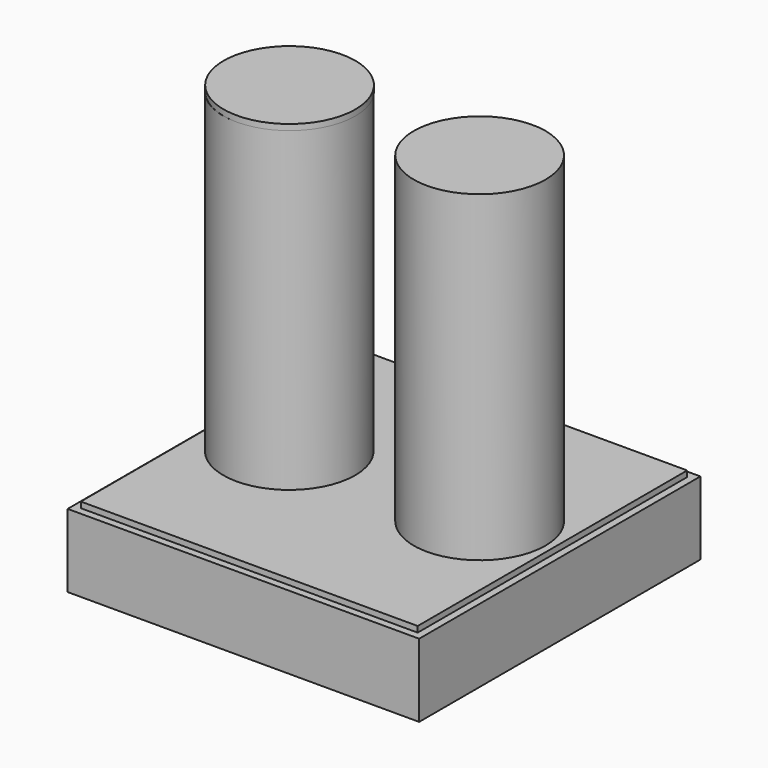
from build123d import *

# Parameters (mm, degrees)
F0_W     = 120
F0_H     = 120
F0_R     = 57
F1_DEPTH = 25
F2_W     = 115
F2_H     = 115
F2_R     = 22.5
F3_DEPTH = 2
F2_R_2   = 20
F4_DEPTH = 110
F5_R     = 22.5
F5_R_2   = 20
F6_DEPTH = 2


with BuildPart() as f1:
    # F0 (on Top) → F1 (new body)
    with BuildSketch(Plane.XY):
        Rectangle(F0_W, F0_H)
        Circle(F0_R, mode=Mode.SUBTRACT)
    extrude(amount=-F1_DEPTH)

    # F2 (on Top) → F3 (join)
    with BuildSketch(Plane.XY):
        Rectangle(F2_W, F2_H)
        with Locations((-32.354934313, 0)):
            Circle(F2_R, mode=Mode.SUBTRACT)
        with Locations((32.645065687, 0)):
            Circle(F2_R, mode=Mode.SUBTRACT)
    extrude(amount=F3_DEPTH)

    # F2 (on Top) → F4 (join)
    with BuildSketch(Plane.XY):
        with Locations((-32.354934313, 0)):
            Circle(F2_R)
        with Locations((-32.354934313, 0)):
            Circle(F2_R_2, mode=Mode.SUBTRACT)
        with Locations((32.645065687, 0)):
            Circle(F2_R)
        with Locations((32.645065687, 0)):
            Circle(F2_R_2, mode=Mode.SUBTRACT)
    extrude(amount=F4_DEPTH)

    # F5 (on face) → F6 (join)
    with BuildSketch(Plane.XY.offset(110)):
        with Locations((32.645065687, 0)):
            Circle(F5_R)
        with Locations((32.645065687, 0)):
            Circle(F5_R_2, mode=Mode.SUBTRACT)
        with Locations((-32.2491377592, 0)):
            Circle(F5_R)
        with Locations((32.645065687, 0)):
            Circle(F5_R_2)
    extrude(amount=F6_DEPTH)


solid = f1.part
